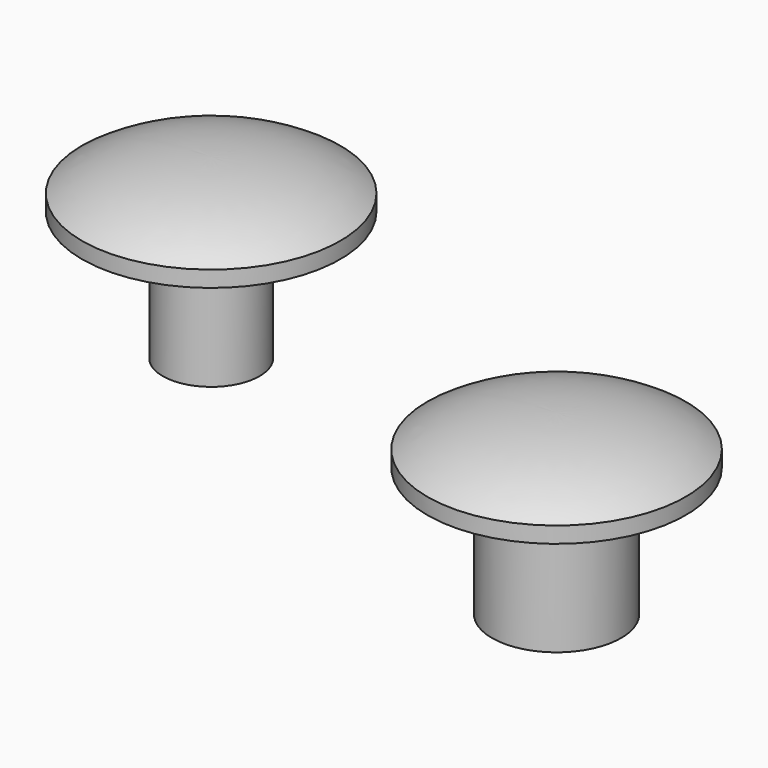
from build123d import *


with BuildPart() as f1:
    # F0 (on Front) → F1 (revolve)
    with BuildSketch(Plane.XZ):
        with BuildLine():
            Line((0, 0), (0, 4))
            add(Edge.make_bspline(
                [(-8, 2), (-6.2015, 3.226357), (-3.674635, 4), (0, 4)],
                knots=[0, 0, 0, 0, 8.246211, 8.246211, 8.246211, 8.246211], degree=3))
            Line((-8, 2), (-8, 1))
            Line((-8, 1), (-6, 1))
            Line((-6, 1), (-6, 0))
            Line((-6, 0), (-4, 0))
            Line((-4, 0), (-4, -7))
            Line((-4, -7), (-3, -7))
            Line((-3, -7), (-3, 0))
            Line((-3, 0), (0, 0))
        make_face()
    revolve(axis=Axis((0, 0, 2), (0, 0, -1)))


with BuildPart() as f3:
    # F2 (on Front) → F3 (revolve)
    with BuildSketch(Plane.XZ):
        with BuildLine():
            Line((-21.399998, 7), (-21.399998, 11))
            add(Edge.make_bspline(
                [(-29.399998, 9), (-27.601498, 10.226357), (-25.074633, 11), (-21.399998, 11)],
                knots=[0, 0, 0, 0, 8.246211, 8.246211, 8.246211, 8.246211], degree=3))
            Line((-29.399998, 9), (-29.399998, 8))
            Line((-29.399998, 8), (-27.399998, 8))
            Line((-27.399998, 8), (-27.399998, 7))
            Line((-27.399998, 7), (-24.399998, 7))
            Line((-24.399998, 7), (-24.399998, 0))
            Line((-24.399998, 0), (-23.399998, 0))
            Line((-23.399998, 0), (-23.399998, 7))
            Line((-23.399998, 7), (-21.399998, 7))
        make_face()
    revolve(axis=Axis((-21.399998, 0, 9), (0, 0, -1)))


solid = Compound([f1.part, f3.part])
